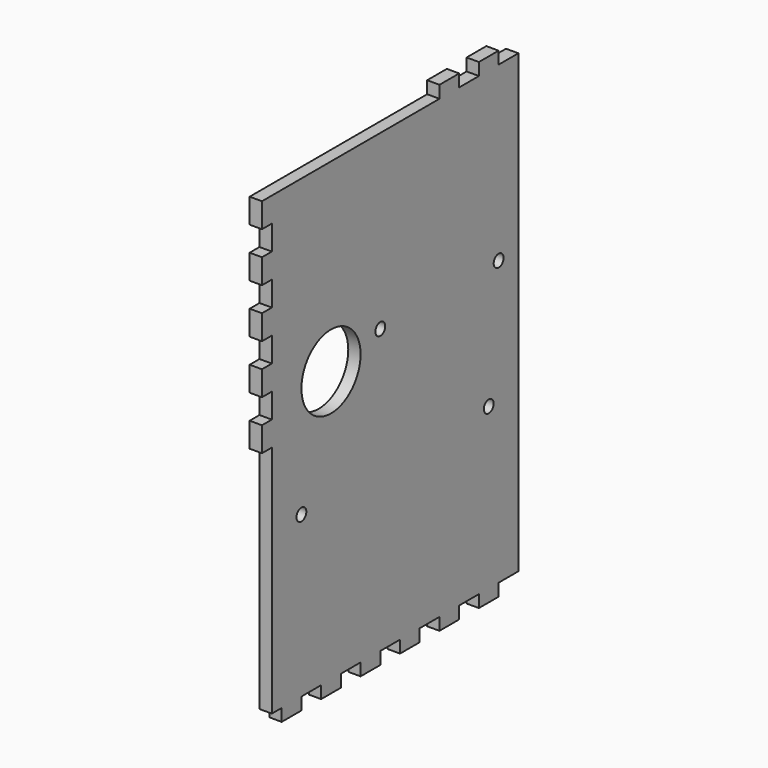
from build123d import *

# Parameters (mm, degrees)
SKETCH_W             = 125
SKETCH_H             = 185
PAD_DEPTH            = 5
SKETCH001_W          = 10
SKETCH001_H          = 5
PAD001_DEPTH         = 5
SKETCH002_W          = 10
SKETCH002_H          = 5
PAD002_DEPTH         = 5
SKETCH003_W          = 5
SKETCH003_H          = 10
PAD003_DEPTH         = 5
SKETCH004_R          = 15
POCKET_DEPTH         = 5.001
SKETCH005_R          = 2.5
POCKET001_DEPTH      = 0.001
POCKET001_DEPTH_BACK = 5.001
SKETCH006_R          = 2.5
POCKET002_DEPTH      = 0.001
POCKET002_DEPTH_BACK = 5.001


with BuildPart() as part:
    # Sketch → Pad (new body)
    with BuildSketch(Plane.YZ):
        with Locations((62.5, 92.5)):
            Rectangle(SKETCH_W, SKETCH_H)
    extrude(amount=PAD_DEPTH)

    # Sketch001 (on Face6 of Pad) → Pad001 (join)
    with BuildSketch(Plane.YZ.offset(5)):
        with Locations((110, 187.5)):
            Rectangle(SKETCH001_W, SKETCH001_H)
        with Locations((90, 187.5)):
            Rectangle(SKETCH001_W, SKETCH001_H)
    extrude(amount=-PAD001_DEPTH)

    # Sketch002 (on Face14 of Pad001) → Pad002 (join)
    with BuildSketch(Plane.YZ.offset(5)):
        with Locations((10, -2.5)):
            Rectangle(SKETCH002_W, SKETCH002_H)
        with Locations((30, -2.5)):
            Rectangle(SKETCH002_W, SKETCH002_H)
        with Locations((50, -2.5)):
            Rectangle(SKETCH002_W, SKETCH002_H)
        with Locations((70, -2.5)):
            Rectangle(SKETCH002_W, SKETCH002_H)
        with Locations((90, -2.5)):
            Rectangle(SKETCH002_W, SKETCH002_H)
        with Locations((110, -2.5)):
            Rectangle(SKETCH002_W, SKETCH002_H)
    extrude(amount=-PAD002_DEPTH)

    # Sketch003 (on Face38 of Pad002) → Pad003 (join)
    with BuildSketch(Plane.YZ.offset(5)):
        with Locations((-2.5, 180)):
            Rectangle(SKETCH003_W, SKETCH003_H)
        with Locations((-2.5, 160)):
            Rectangle(SKETCH003_W, SKETCH003_H)
        with Locations((-2.5, 140)):
            Rectangle(SKETCH003_W, SKETCH003_H)
        with Locations((-2.5, 120)):
            Rectangle(SKETCH003_W, SKETCH003_H)
        with Locations((-2.5, 100)):
            Rectangle(SKETCH003_W, SKETCH003_H)
    extrude(amount=-PAD003_DEPTH)

    # Sketch004 (on Face55 of Pad003) → Pocket (cut, through all)
    with BuildSketch(Plane.YZ.offset(5)):
        with Locations((30, 110)):
            Circle(SKETCH004_R)
    extrude(amount=-POCKET_DEPTH, mode=Mode.SUBTRACT)

    # Sketch005 → Pocket001 (cut, two sides)
    with BuildSketch(Plane.YZ) as pocket001_sk:
        with Locations((15, 65)):
            Circle(SKETCH005_R)
        with Locations((110, 65)):
            Circle(SKETCH005_R)
    extrude(amount=-POCKET001_DEPTH, mode=Mode.SUBTRACT)
    extrude(pocket001_sk.sketch, amount=POCKET001_DEPTH_BACK, mode=Mode.SUBTRACT)

    # Sketch006 → Pocket002 (cut, two sides)
    with BuildSketch(Plane.YZ) as pocket002_sk:
        with Locations((55, 115)):
            Circle(SKETCH006_R)
        with Locations((115, 115)):
            Circle(SKETCH006_R)
    extrude(amount=-POCKET002_DEPTH, mode=Mode.SUBTRACT)
    extrude(pocket002_sk.sketch, amount=POCKET002_DEPTH_BACK, mode=Mode.SUBTRACT)


solid = part.part
